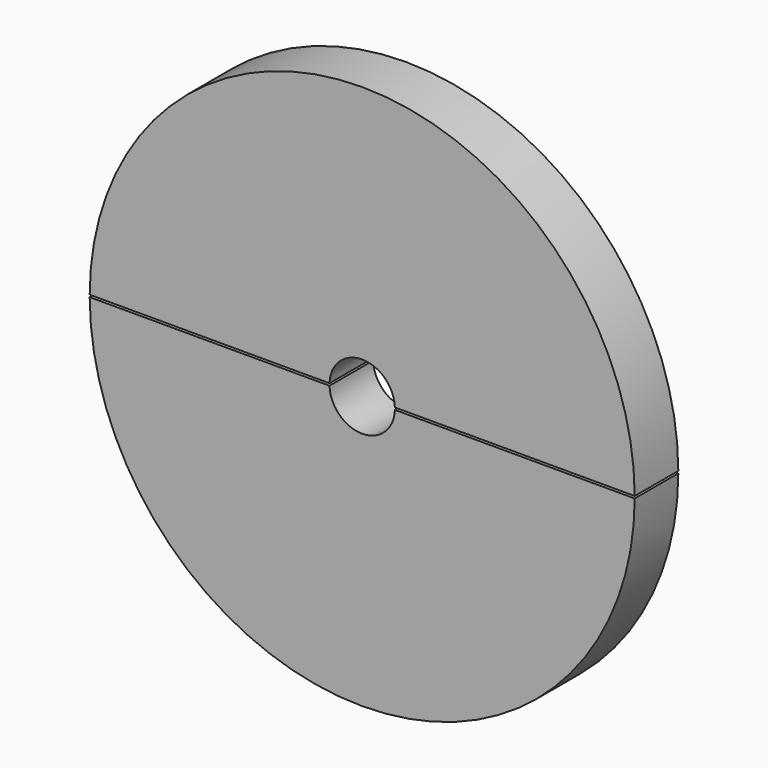
from build123d import *

# Parameters (mm, degrees)
F0_R     = 125
F1_DEPTH = 25
F2_R     = 15
F3_DEPTH = 25
F4_W     = 500
F4_H     = 1
F5_DEPTH = 25


with BuildPart() as f1:
    # F0 (on Front) → F1 (new body)
    with BuildSketch(Plane.XZ):
        Circle(F0_R)
    extrude(amount=F1_DEPTH)

    # F2 (on face) → F3 (cut)
    with BuildSketch(Plane.XZ.offset(25)):
        Circle(F2_R)
    extrude(amount=-F3_DEPTH, mode=Mode.SUBTRACT)

    # F4 (on face) → F5 (cut)
    with BuildSketch(Plane.XZ.offset(25)):
        with Locations((-18.102854, 0)):
            Rectangle(F4_W, F4_H)
    extrude(amount=-F5_DEPTH, mode=Mode.SUBTRACT)


solid = f1.part
